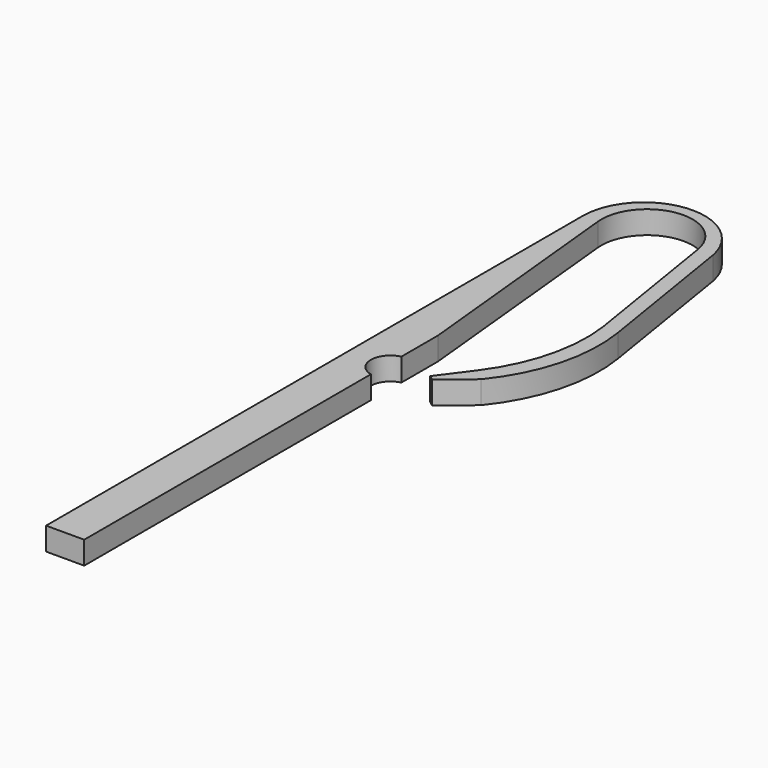
from build123d import *

# Parameters (mm, degrees)
PAD_DEPTH    = 3
POCKET_DEPTH = 3.001


with BuildPart() as part:
    # Sketch → Pad (new body)
    with BuildSketch(Plane.XY):
        with BuildLine():
            Line((0, 0), (0, 88))
            ThreePointArc((15.849182, 89.546106), (7.223278, 95.962235), (0, 88))
            Line((15.849182, 89.546106), (19, 70))
            ThreePointArc((14.497745, 53.183248), (18.54727, 61.110149), (19, 70))
            Line((14.497745, 53.183248), (10.641979, 50))
            Line((10.641979, 50), (10, 50.47735))
            Line((10, 50.47735), (12.983436, 54.48972))
            ThreePointArc((12.983436, 54.48972), (16.50721, 61.852406), (17, 70))
            Line((17, 70), (13.849182, 89.546106))
            ThreePointArc((13.849182, 89.546106), (7.174445, 94.522086), (2, 88))
            Line((2, 88), (5, 58))
            Line((5, 58), (5, 0))
            Line((5, 0), (0, 0))
        make_face()
    extrude(amount=PAD_DEPTH)

    # Sketch001 → Pocket (cut, through all)
    with BuildSketch(Plane.XY.offset(3)):
        with BuildLine():
            ThreePointArc((5, 52), (3, 49.5), (5, 47))
            Line((5, 52), (5, 47))
        make_face()
    extrude(amount=-POCKET_DEPTH, mode=Mode.SUBTRACT)


solid = part.part
